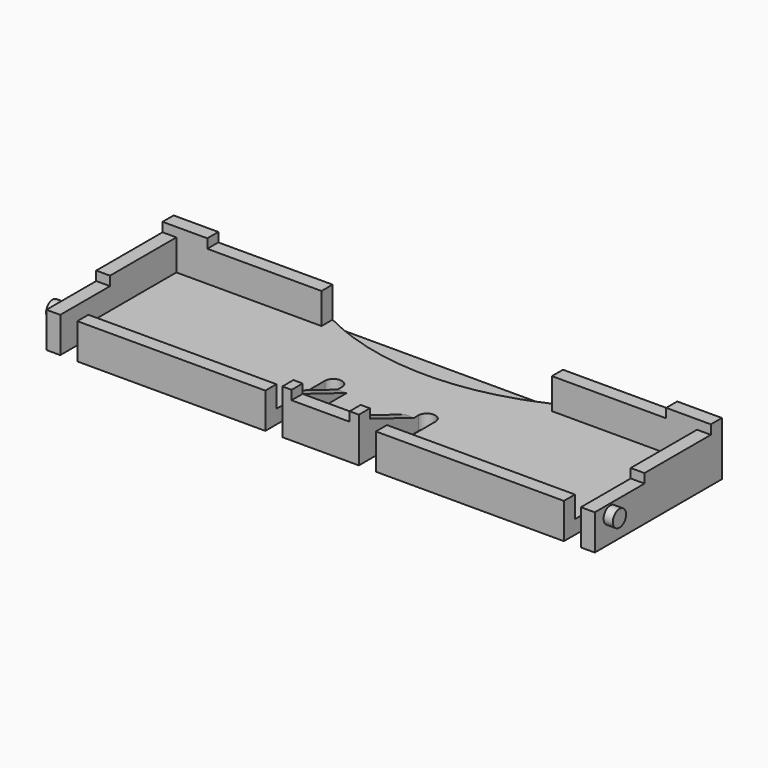
from build123d import *

# Parameters (mm, degrees)
F0_W      = 59.5
F0_H      = 17.25
F1_DEPTH  = 4.85
F2_T      = -1.5
F3_W      = 1.85
F3_H      = 1.5
F4_DEPTH  = 4.851
F6_DEPTH  = 4
F8_DEPTH  = 3.351
F9_W      = 1.5
F9_H      = 6.75
F10_DEPTH = 1
F11_W     = 4.85
F11_H     = 1.5
F12_DEPTH = 1
F13_W     = 1.5
F13_H     = 1
F14_DEPTH = 1
F15_W     = 1.5
F15_H     = 1
F16_DEPTH = 1
F17_R     = 0.9
F18_DEPTH = 1
F19_R     = 0.9
F20_DEPTH = 1


with BuildPart() as f1:
    # F0 (on Top) → F1 (new body)
    with BuildSketch(Plane.XY):
        with Locations((-29.75, 8.625)):
            Rectangle(F0_W, F0_H)
    extrude(amount=F1_DEPTH)

    # F2
    f2_openings = [f1.faces().sort_by_distance(p)[0] for p in [
        (-29.75, 8.625, 4.85),
    ]]
    offset(amount=F2_T, openings=f2_openings)

    # F3 (on face) → F4 (cut, through all)
    with BuildSketch(Plane.XY.offset(4.85)):
        with BuildLine():
            Line((-35.75, 8.075), (-35.75, 1.5))
            Line((-35.75, 1.5), (-33.9, 1.5))
            Line((-33.9, 1.5), (-33.9, 8.075))
            ThreePointArc((-33.9, 8.075), (-34.825, 9), (-35.75, 8.075))
        make_face()
        with Locations((-34.825, 0.75)):
            Rectangle(F3_W, F3_H)
        with BuildLine():
            Line((-58, 1.5), (-56.15, 1.5))
            Line((-56.15, 1.5), (-56.15, 3.5))
            ThreePointArc((-56.15, 3.5), (-57.075, 4.425), (-58, 3.5))
            Line((-58, 3.5), (-58, 1.5))
        make_face()
        with Locations((-57.075, 0.75)):
            Rectangle(F3_W, F3_H)
        with BuildLine():
            Line((-25.6, 8.075), (-25.6, 1.5))
            Line((-25.6, 1.5), (-23.75, 1.5))
            Line((-23.75, 1.5), (-23.75, 8.075))
            ThreePointArc((-23.75, 8.075), (-24.675, 9), (-25.6, 8.075))
        make_face()
        with Locations((-24.675, 0.75)):
            Rectangle(F3_W, F3_H)
        with BuildLine():
            Line((-1.5, 1.5), (-1.5, 3.5))
            ThreePointArc((-1.5, 3.5), (-2.425, 4.425), (-3.35, 3.5))
            Line((-3.35, 3.5), (-3.35, 1.5))
            Line((-3.35, 1.5), (-1.5, 1.5))
        make_face()
        with Locations((-2.425, 0.75)):
            Rectangle(F3_W, F3_H)
    extrude(amount=-F4_DEPTH, mode=Mode.SUBTRACT)

    # F5 (on face) → F6 (cut)
    with BuildSketch(Plane.XY.offset(4.85)):
        with BuildLine():
            Line((-20.7847894615, 15.75), (-38.7152105385, 15.75))
            ThreePointArc((-38.7152105385, 15.75), (-29.75, 14.25), (-20.7847894615, 15.75))
        make_face()
        with BuildLine():
            Line((-17.25, 17.25), (-42.25, 17.25))
            ThreePointArc((-42.25, 17.25), (-40.508778549, 16.4383219778), (-38.7152105385, 15.75))
            Line((-38.7152105385, 15.75), (-20.7847894615, 15.75))
            ThreePointArc((-20.7847894615, 15.75), (-18.991221451, 16.4383219778), (-17.25, 17.25))
        make_face()
    extrude(amount=-F6_DEPTH, mode=Mode.SUBTRACT)

    # F7 (on face) → F8 (cut, through all)
    with BuildSketch(Plane.XY.offset(1.5)):
        with BuildLine():
            Line((-42.25, 17.25), (-42.25, 15.75))
            Line((-42.25, 15.75), (-38.7152105385, 15.75))
            ThreePointArc((-38.7152105385, 15.75), (-40.508778549, 16.4383219778), (-42.25, 17.25))
        make_face()
        with BuildLine():
            ThreePointArc((-17.25, 17.25), (-18.991221451, 16.4383219778), (-20.7847894615, 15.75))
            Line((-20.7847894615, 15.75), (-17.25, 15.75))
            Line((-17.25, 15.75), (-17.25, 17.25))
        make_face()
    extrude(amount=F8_DEPTH, mode=Mode.SUBTRACT)

    # F9 (on face) → F10 (cut)
    with BuildSketch(Plane.XY.offset(4.85)):
        with Locations((-58.75, 3.375)):
            Rectangle(F9_W, F9_H)
        Polygon((-59.5, 6.75), (-60.5477912843, 6.75), (-60.5477912843, -8.7434453119), (1.7196297206, -8.7434453119), (1.7196297206, 6.75), (-58, 6.75), (-58, 0), (-59.5, 0), align=None)
    extrude(amount=-F10_DEPTH, mode=Mode.SUBTRACT)

    # F11 (on face) → F12 (join)
    with BuildSketch(Plane.XY.offset(4.85)):
        Polygon((-54.65, 17.25), (-59.5, 17.25), (-59.5, 15.75), (-58, 15.75), (-54.65, 15.75), align=None)
        with Locations((-2.425, 16.5)):
            Rectangle(F11_W, F11_H)
    extrude(amount=F12_DEPTH)

    # F13 (on face) → F14 (join)
    with BuildSketch(Plane(origin=(-33.9, 0, 0), x_dir=(0, -1, 0), z_dir=(-1, 0, 0))):
        Polygon((-1.5, 1.5), (-1.5, 3.85), (-7.5, 1.5), align=None)
        with Locations((-0.75, 4.35)):
            Rectangle(F13_W, F13_H)
    extrude(amount=-F14_DEPTH)

    # F15 (on face) → F16 (join)
    with BuildSketch(Plane.YZ.offset(-25.6)):
        with Locations((0.75, 4.35)):
            Rectangle(F15_W, F15_H)
        Polygon((7.5, 1.5), (1.5, 3.85), (1.5, 1.5), align=None)
    extrude(amount=-F16_DEPTH)

    # F17 (on face) → F18 (join)
    with BuildSketch(Plane.YZ):
        with Locations((2.1, 2.75)):
            Circle(F17_R)
    extrude(amount=F18_DEPTH)

    # F19 (on face) → F20 (join)
    with BuildSketch(Plane(origin=(-59.5, 0, 0), x_dir=(0, -1, 0), z_dir=(-1, 0, 0))):
        with Locations((-2.1, 2.75)):
            Circle(F19_R)
    extrude(amount=F20_DEPTH)


solid = f1.part
